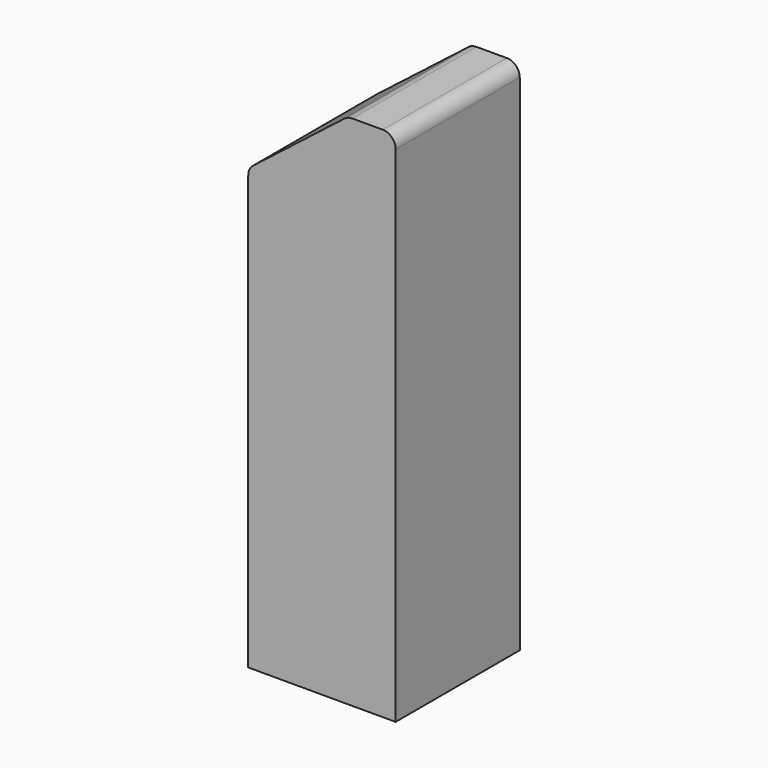
from build123d import *

# Parameters (mm, degrees)
F1_DEPTH = 6
F2_R     = 1.05
F3_DEPTH = 1.5
F4_R     = 1.075
F5_DEPTH = 5
F6_R     = 0.5


with BuildPart() as f1:
    # F0 (on Front) → F1 (new body)
    with BuildSketch(Plane.XZ):
        Polygon((-2.85, -10), (2.85, -10), (2.85, 10), (1.00367, 10), (-2.85, 7), align=None)
    extrude(amount=F1_DEPTH)

    # F2 (on face) → F3 (cut)
    with BuildSketch(Plane(origin=(-2.85, 0, 0), x_dir=(0, -1, 0), z_dir=(-1, 0, 0))):
        with Locations((3, -4)):
            Circle(F2_R)
        with Locations((3, 3.25)):
            Circle(F2_R)
    extrude(amount=-F3_DEPTH, mode=Mode.SUBTRACT)

    # F4 (on face) → F5 (cut)
    with BuildSketch(Plane(origin=(0, 0, -10), x_dir=(1, 0, 0), z_dir=(0, 0, -1))):
        with Locations((-0.15, 3)):
            Circle(F4_R)
    extrude(amount=-F5_DEPTH, mode=Mode.SUBTRACT)

    # F6
    f6_edges = [f1.edges().sort_by_distance(p)[0] for p in [
        (2.85, -3, 10),
        (-2.85, -3, 7),
        (1.00367, -3, 10),
    ]]
    fillet(f6_edges, radius=F6_R)


solid = f1.part
